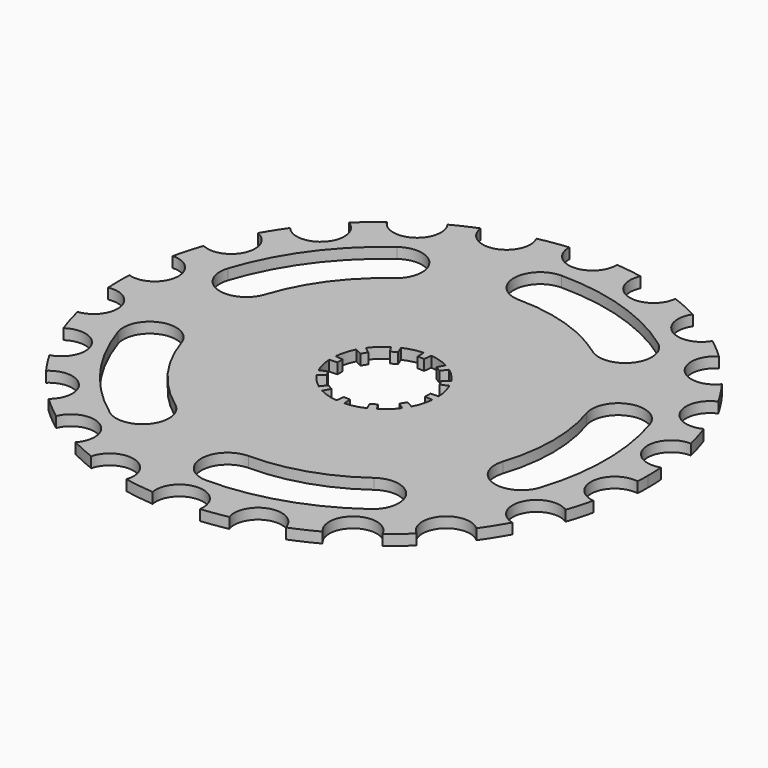
from build123d import *

# Parameters (mm, degrees)
F1_DEPTH = 2
F3_DEPTH = 2
F5_DEPTH = 2


with BuildPart() as f1:
    # F0 (on Top) → F1 (new body)
    with BuildSketch(Plane.XY):
        with BuildLine():
            ThreePointArc((49.942072, -2.406128), (49.985516, -1.203413), (50, 0))
            ThreePointArc((50, 0), (49.974201, 1.606012), (49.896829, 3.210366))
            ThreePointArc((49.896829, 3.210366), (43.993208, 6.785947), (48.544998, 11.974273))
            ThreePointArc((48.544998, 11.974273), (47.87884, 14.408911), (47.090663, 16.806829))
            ThreePointArc((47.090663, 16.806829), (40.967156, 18.934106), (43.314795, 24.976559))
            ThreePointArc((43.314795, 24.976559), (41.843566, 27.369983), (40.240229, 29.676994))
            ThreePointArc((40.240229, 29.676994), (33.340682, 29.493226), (34.36487, 36.318806))
            ThreePointArc((34.36487, 36.318806), (32.488197, 38.006802), (30.528729, 39.597938))
            ThreePointArc((30.528729, 39.597938), (24.227214, 38.076901), (22.935377, 44.429365))
            ThreePointArc((22.935377, 44.429365), (20.403718, 45.647435), (17.80764, 46.721386))
            ThreePointArc((17.80764, 46.721386), (12.102725, 42.836614), (9.274139, 49.132376))
            ThreePointArc((9.274139, 49.132376), (6.782782, 49.537802), (4.274139, 49.816982))
            ThreePointArc((4.274139, 49.816982), (-0.204697, 45.130548), (-4.725861, 49.776161))
            ThreePointArc((-4.725861, 49.776161), (-7.514166, 49.432148), (-10.278748, 48.932069))
            ThreePointArc((-10.278748, 48.932069), (-12.977762, 42.57968), (-18.761065, 46.346763))
            ThreePointArc((-18.761065, 46.346763), (-21.076119, 45.3409), (-23.337459, 44.219487))
            ThreePointArc((-23.337459, 44.219487), (-24.571619, 37.855565), (-30.886672, 39.319378))
            ThreePointArc((-30.886672, 39.319378), (-33.046356, 37.522505), (-35.101707, 35.607165))
            ThreePointArc((-35.101707, 35.607165), (-33.937901, 28.803999), (-40.839764, 28.84638))
            ThreePointArc((-40.839764, 28.84638), (-42.243501, 26.748582), (-43.53958, 24.582616))
            ThreePointArc((-43.53958, 24.582616), (-41.137225, 18.561708), (-47.241183, 16.37897))
            ThreePointArc((-47.241183, 16.37897), (-48.086561, 13.69973), (-48.780121, 10.977238))
            ThreePointArc((-48.780121, 10.977238), (-44.122996, 5.883251), (-49.952127, 2.187476))
            ThreePointArc((-49.952127, 2.187476), (-49.99887, -0.336221), (-49.918191, -2.859061))
            ThreePointArc((-49.918191, -2.859061), (-44.642053, -6.62536), (-48.596952, -11.761645))
            ThreePointArc((-48.596952, -11.761645), (-47.859623, -14.472611), (-46.971192, -17.137885))
            ThreePointArc((-46.971192, -17.137885), (-40.299352, -18.905387), (-43.205042, -25.165937))
            ThreePointArc((-43.205042, -25.165937), (-41.879951, -27.314277), (-40.448129, -29.393007))
            ThreePointArc((-40.448129, -29.393007), (-33.973344, -29.708924), (-34.523532, -36.168021))
            ThreePointArc((-34.523532, -36.168021), (-32.437593, -38.050001), (-30.249241, -39.81185))
            ThreePointArc((-30.249241, -39.81185), (-23.680948, -37.691698), (-22.740661, -44.529342))
            ThreePointArc((-22.740661, -44.529342), (-20.464443, -45.620243), (-18.136072, -46.59488))
            ThreePointArc((-18.136072, -46.59488), (-12.518339, -43.360114), (-9.489135, -49.091306))
            ThreePointArc((-9.489135, -49.091306), (-6.716856, -49.546784), (-3.92337, -49.845834))
            ThreePointArc((-3.92337, -49.845834), (0.455989, -44.511162), (4.943718, -49.754996))
            ThreePointArc((4.943718, -49.754996), (7.44838, -49.442104), (9.934059, -49.003209))
            ThreePointArc((9.934059, -49.003209), (12.91115, -43.244774), (18.557995, -46.428448))
            ThreePointArc((18.557995, -46.428448), (21.136435, -45.312814), (23.648143, -44.054118))
            ThreePointArc((23.648143, -44.054118), (24.448153, -37.198646), (31.058502, -39.18379))
            ThreePointArc((31.058502, -39.18379), (32.996395, -37.566446), (34.850197, -35.853364))
            ThreePointArc((34.850197, -35.853364), (34.241441, -29.399524), (40.713093, -29.024886))
            ThreePointArc((40.713093, -29.024886), (42.279058, -26.692345), (43.711539, -24.275531))
            ThreePointArc((43.711539, -24.275531), (40.678202, -18.075823), (47.312431, -16.172008))
            ThreePointArc((47.312431, -16.172008), (48.068288, -13.763707), (48.701644, -11.32033))
            ThreePointArc((48.701644, -11.32033), (44.700316, -6.220133), (49.942072, -2.406128))
        make_face()
    extrude(amount=F1_DEPTH)

    # F2 (on face) → F3 (cut)
    with BuildSketch(Plane.XY.offset(2)):
        with BuildLine():
            Line((8.49059, 0.399851), (9.988929, 0.470413))
            ThreePointArc((9.988929, 0.470413), (9.727268, 2.319537), (9.126347, 4.087762))
            Line((9.126347, 4.087762), (7.738448, 3.516591))
            ThreePointArc((7.738448, 3.516591), (7.46517, 4.064633), (7.153141, 4.591576))
            Line((7.153141, 4.591576), (8.41546, 5.401854))
            ThreePointArc((8.41546, 5.401854), (7.264293, 6.872412), (5.859767, 8.103279))
            Line((5.859767, 8.103279), (4.943397, 6.914682))
            ThreePointArc((4.943397, 6.914682), (4.43271, 7.25266), (3.899014, 7.552992))
            Line((3.899014, 7.552992), (4.587075, 8.885873))
            ThreePointArc((4.587075, 8.885873), (2.854856, 9.58383), (1.023068, 9.947529))
            Line((1.023068, 9.947529), (0.823767, 8.459989))
            ThreePointArc((0.823767, 8.459989), (0.21251, 8.497343), (-0.399851, 8.49059))
            Line((-0.399851, 8.49059), (-0.470413, 9.988929))
            ThreePointArc((-0.470413, 9.988929), (-2.319537, 9.727268), (-4.087762, 9.126347))
            Line((-4.087762, 9.126347), (-3.516591, 7.738448))
            ThreePointArc((-3.516591, 7.738448), (-4.064633, 7.46517), (-4.591576, 7.153141))
            Line((-4.591576, 7.153141), (-5.401854, 8.41546))
            ThreePointArc((-5.401854, 8.41546), (-6.872412, 7.264293), (-8.103279, 5.859767))
            Line((-8.103279, 5.859767), (-6.914682, 4.943397))
            ThreePointArc((-6.914682, 4.943397), (-7.25266, 4.43271), (-7.552992, 3.899014))
            Line((-7.552992, 3.899014), (-8.885873, 4.587075))
            ThreePointArc((-8.885873, 4.587075), (-9.58383, 2.854856), (-9.947529, 1.023068))
            Line((-9.947529, 1.023068), (-8.459989, 0.823767))
            ThreePointArc((-8.459989, 0.823767), (-8.497343, 0.21251), (-8.49059, -0.399851))
            Line((-8.49059, -0.399851), (-9.988929, -0.470413))
            ThreePointArc((-9.988929, -0.470413), (-9.727268, -2.319537), (-9.126347, -4.087762))
            Line((-9.126347, -4.087762), (-7.738448, -3.516591))
            ThreePointArc((-7.738448, -3.516591), (-7.46517, -4.064633), (-7.153141, -4.591576))
            Line((-7.153141, -4.591576), (-8.41546, -5.401854))
            ThreePointArc((-8.41546, -5.401854), (-7.264293, -6.872412), (-5.859767, -8.103279))
            Line((-5.859767, -8.103279), (-4.943397, -6.914682))
            ThreePointArc((-4.943397, -6.914682), (-4.43271, -7.25266), (-3.899014, -7.552992))
            Line((-3.899014, -7.552992), (-4.587075, -8.885873))
            ThreePointArc((-4.587075, -8.885873), (-2.854856, -9.58383), (-1.023068, -9.947529))
            Line((-1.023068, -9.947529), (-0.823767, -8.459989))
            ThreePointArc((-0.823767, -8.459989), (-0.21251, -8.497343), (0.399851, -8.49059))
            Line((0.399851, -8.49059), (0.470413, -9.988929))
            ThreePointArc((0.470413, -9.988929), (2.319537, -9.727268), (4.087762, -9.126347))
            Line((4.087762, -9.126347), (3.516591, -7.738448))
            ThreePointArc((3.516591, -7.738448), (4.064633, -7.46517), (4.591576, -7.153141))
            Line((4.591576, -7.153141), (5.401854, -8.41546))
            ThreePointArc((5.401854, -8.41546), (6.872412, -7.264293), (8.103279, -5.859767))
            Line((8.103279, -5.859767), (6.914682, -4.943397))
            ThreePointArc((6.914682, -4.943397), (7.25266, -4.43271), (7.552992, -3.899014))
            Line((7.552992, -3.899014), (8.885873, -4.587075))
            ThreePointArc((8.885873, -4.587075), (9.58383, -2.854856), (9.947529, -1.023068))
            Line((9.947529, -1.023068), (8.459989, -0.823767))
            ThreePointArc((8.459989, -0.823767), (8.497343, -0.21251), (8.49059, 0.399851))
        make_face()
    extrude(amount=-F3_DEPTH, mode=Mode.SUBTRACT)

    # F4 (on face) → F5 (cut)
    with BuildSketch(Plane.XY.offset(2)):
        with BuildLine():
            ThreePointArc((18.809128, 25.888544), (25.793139, 26.994703), (24.686981, 33.978714))
            ThreePointArc((24.686981, 33.978714), (12.978714, 39.944374), (0, 42))
            ThreePointArc((0, 42), (3.535534, 40.535534), (5, 37))
            ThreePointArc((5, 37), (3.535534, 33.464466), (0, 32))
            ThreePointArc((0, 32), (9.888544, 30.433809), (18.809128, 25.888544))
        make_face()
        with BuildLine():
            ThreePointArc((5, 37), (3.535534, 40.535534), (0, 42))
            ThreePointArc((0, 42), (-5, 37), (0, 32))
            ThreePointArc((0, 32), (3.535534, 33.464466), (5, 37))
        make_face()
        with BuildLine():
            ThreePointArc((-30.433809, 9.888544), (-25.888544, 18.809128), (-18.809128, 25.888544))
            ThreePointArc((-18.809128, 25.888544), (-17.702969, 32.872555), (-24.686981, 33.978714))
            ThreePointArc((-24.686981, 33.978714), (-33.978714, 24.686981), (-39.944374, 12.978714))
            ThreePointArc((-39.944374, 12.978714), (-36.734176, 6.678346), (-30.433809, 9.888544))
        make_face()
        with BuildLine():
            ThreePointArc((-18.809128, -25.888544), (-25.888544, -18.809128), (-30.433809, -9.888544))
            ThreePointArc((-30.433809, -9.888544), (-36.734176, -6.678346), (-39.944374, -12.978714))
            ThreePointArc((-39.944374, -12.978714), (-33.978714, -24.686981), (-24.686981, -33.978714))
            ThreePointArc((-24.686981, -33.978714), (-17.702969, -32.872555), (-18.809128, -25.888544))
        make_face()
        with BuildLine():
            ThreePointArc((18.809128, -25.888544), (9.888544, -30.433809), (0, -32))
            ThreePointArc((0, -32), (-5, -37), (0, -42))
            ThreePointArc((0, -42), (12.978714, -39.944374), (24.686981, -33.978714))
            ThreePointArc((24.686981, -33.978714), (25.793139, -26.994703), (18.809128, -25.888544))
        make_face()
        with BuildLine():
            ThreePointArc((30.433809, 9.888544), (32, 0), (30.433809, -9.888544))
            ThreePointArc((30.433809, -9.888544), (33.644006, -16.188911), (39.944374, -12.978714))
            ThreePointArc((39.944374, -12.978714), (42, 0), (39.944374, 12.978714))
            ThreePointArc((39.944374, 12.978714), (33.644006, 16.188911), (30.433809, 9.888544))
        make_face()
    extrude(amount=-F5_DEPTH, mode=Mode.SUBTRACT)


solid = f1.part
